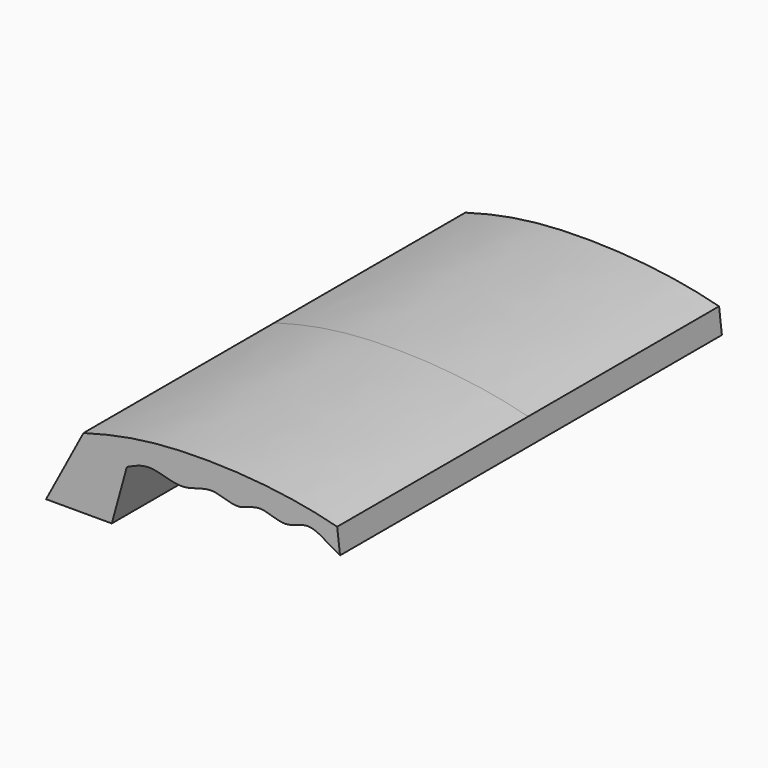
from build123d import *

# Parameters (mm, degrees)
F1_DEPTH = 85


with BuildPart() as f1:
    # F0 (on Front) → F1 (new body)
    with BuildSketch(Plane.XZ):
        with BuildLine():
            add(Edge.make_bspline(
                [(-39.2868295312, 0), (-25.1571634283, 4.04703105), (-0.6013855713, 7.291681831), (33.9356810167, 4.5434392678), (51.0795675218, 0)],
                knots=[0, 0, 0, 0, 0.467774405, 1, 1, 1, 1], degree=3))
            Line((-39.2868295312, 0), (-52.6009351015, -25.0892844051))
            Line((-52.6009351015, -25.0892844051), (-29.1983734126, -25.0892844051))
            Line((-29.1983734126, -25.0892844051), (-23.8406341523, -5.6309672073))
            add(Edge.make_bspline(
                [(52.0983673632, -8.6650843732), (48.2380644979, -6.8211370015), (41.3312382458, -0.6849001632), (32.7826460532, -7.0898072849), (23.2874334895, -1.3832802668), (15.7911884757, -6.9345891269), (6.0690380429, -1.2854537223), (-3.867053375, -7.2726700753), (-15.306457835, -1.7676626143), (-20.7580629299, -4.1448259387), (-23.8406341523, -5.6309672073)],
                knots=[0, 0, 0, 0, 0.1401675251, 0.2572764595, 0.3800708112, 0.4921785746, 0.616290546, 0.7455469281, 0.8800280482, 1, 1, 1, 1], degree=3))
            Line((52.0983673632, -8.6650843732), (51.0795675218, 0))
        make_face()
    extrude(amount=F1_DEPTH)

    # F2: F1 across plane


with BuildPart() as f1_1:
    add(f1.part)
    add(f1.part.mirror(Plane.XZ))


solid = f1_1.part
